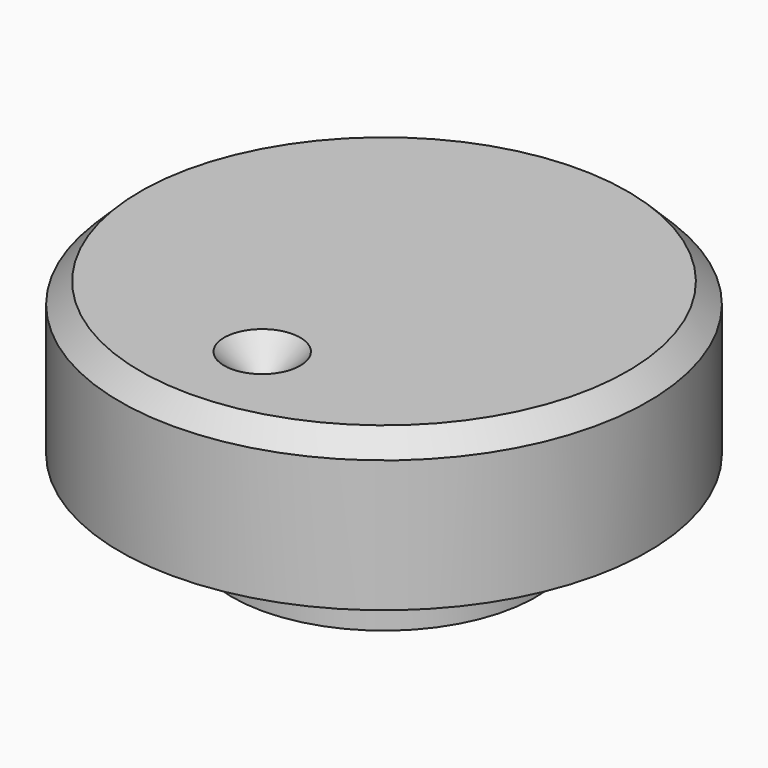
from build123d import *

# Parameters (mm, degrees)
F3_DEPTH  = 9.4615
F6_SIZE   = 1.27
F7_R      = 4.7625
F8_DEPTH  = 5.08
F10_DEPTH = 4.3815


with BuildPart() as f1:
    # F0 (on Right) → F1 (revolve)
    with BuildSketch(Plane.YZ):
        Polygon((0, -14.2875), (0, 0), (-16.51, 0), (-16.51, -9.525), (-12.54125, -9.525), (-12.54125, -6.35), (-9.525, -6.35), (-9.525, -14.2875), align=None)
    revolve(axis=Axis((0, 0, -7.14375), (0, 0, 1)))

    # F2 (on face) → F3 (cut)
    with BuildSketch(Plane(origin=(0, 0, -14.2875), x_dir=(1, 0, 0), z_dir=(0, 0, -1))):
        with BuildLine():
            Line((-1.39492, -1.143), (1.39492, -1.143))
            ThreePointArc((1.39492, -1.143), (0, 1.8034), (-1.39492, -1.143))
        make_face()
    extrude(amount=-F3_DEPTH, mode=Mode.SUBTRACT)

    # F4 (on Right) → F5 (revolve, cut)
    with BuildSketch(Plane.YZ):
        Polygon((-9.525, 0), (-11.90625, 0), (-9.525, -2.38125), align=None)
    revolve(axis=Axis((0, -9.525, -1.190625), (0, 0, -1)), mode=Mode.SUBTRACT)

    # F6
    f6_edges = [f1.edges().sort_by_distance(p)[0] for p in [
        (0, 16.51, 0),
    ]]
    chamfer(f6_edges, length=F6_SIZE)

    # F7 (on face) → F8 (cut)
    with BuildSketch(Plane(origin=(0, 0, -14.2875), x_dir=(1, 0, 0), z_dir=(0, 0, -1))):
        Circle(F7_R)
    extrude(amount=-F8_DEPTH, mode=Mode.SUBTRACT)

    # F9 (on face) → F10 (cut, through all)
    with BuildSketch(Plane(origin=(0, 0, -9.2075), x_dir=(1, 0, 0), z_dir=(0, 0, -1))):
        with BuildLine():
            Line((-1.430541, -1.2192), (1.430541, -1.2192))
            ThreePointArc((1.430541, -1.2192), (0, 1.8796), (-1.430541, -1.2192))
        make_face()
    extrude(amount=-F10_DEPTH, mode=Mode.SUBTRACT)


solid = f1.part
